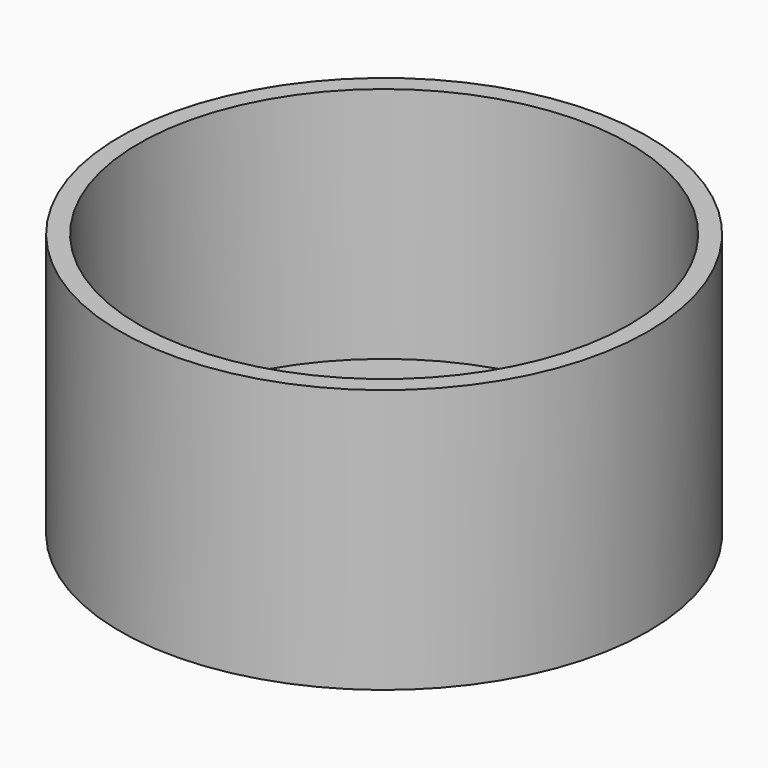
from build123d import *

# Parameters (mm, degrees)
F0_R     = 50
F1_DEPTH = 50
F2_R     = 46.454113
F3_DEPTH = 45


with BuildPart() as f1:
    # F0 (on Top) → F1 (new body)
    with BuildSketch(Plane.XY):
        Circle(F0_R)
    extrude(amount=-F1_DEPTH)

    # F2 (on face) → F3 (cut)
    with BuildSketch(Plane.XY):
        Circle(F2_R)
    extrude(amount=-F3_DEPTH, mode=Mode.SUBTRACT)


solid = f1.part
